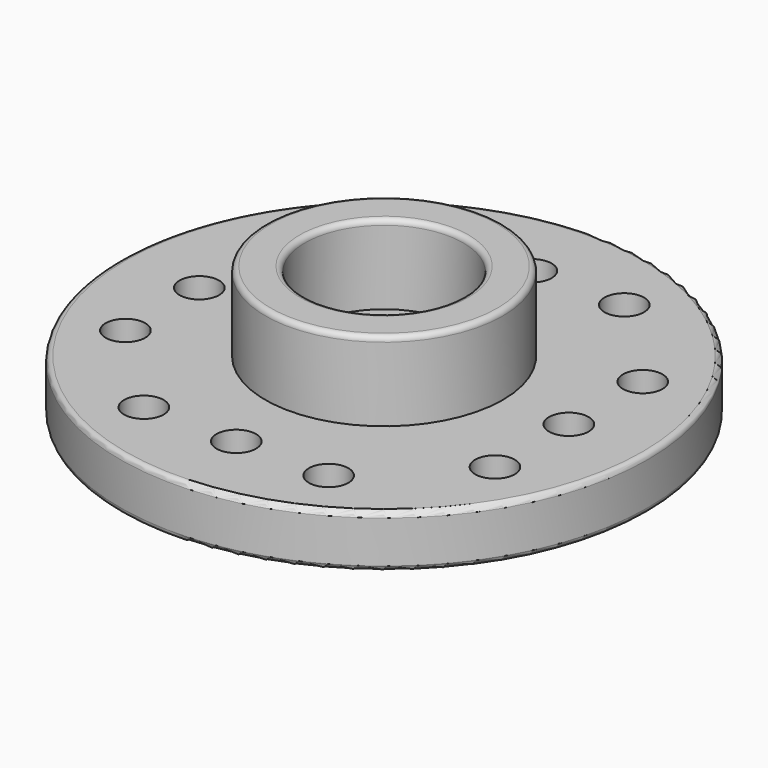
from build123d import *

# Parameters (mm, degrees)
SKETCH_R      = 10
SKETCH_R_2    = 0.75
PAD_DEPTH     = 2
SKETCH001_R   = 4.5
SKETCH001_R_2 = 3
PAD001_DEPTH  = 3
SKETCH003_R   = 1.25
POCKET_DEPTH  = 5
FILLET_R      = 0.2


with BuildPart() as part:
    # Sketch → Pad (new body)
    with BuildSketch(Plane.XY):
        Circle(SKETCH_R)
        with Locations((0, 7)):
            Circle(SKETCH_R_2, mode=Mode.SUBTRACT)
        with Locations((3.5, 7)):
            Circle(SKETCH_R_2, mode=Mode.SUBTRACT)
        with Locations((-3.5, 7)):
            Circle(SKETCH_R_2, mode=Mode.SUBTRACT)
        with Locations((-7, 3.5)):
            Circle(SKETCH_R_2, mode=Mode.SUBTRACT)
        with Locations((-7, 0)):
            Circle(SKETCH_R_2, mode=Mode.SUBTRACT)
        with Locations((-7, -3.5)):
            Circle(SKETCH_R_2, mode=Mode.SUBTRACT)
        with Locations((7, 3.5)):
            Circle(SKETCH_R_2, mode=Mode.SUBTRACT)
        with Locations((7, 0)):
            Circle(SKETCH_R_2, mode=Mode.SUBTRACT)
        with Locations((7, -3.5)):
            Circle(SKETCH_R_2, mode=Mode.SUBTRACT)
        with Locations((0, -7)):
            Circle(SKETCH_R_2, mode=Mode.SUBTRACT)
        with Locations((3.5, -7)):
            Circle(SKETCH_R_2, mode=Mode.SUBTRACT)
        with Locations((-3.5, -7)):
            Circle(SKETCH_R_2, mode=Mode.SUBTRACT)
    extrude(amount=PAD_DEPTH)

    # Sketch001 (on Face15 of Pad) → Pad001 (join)
    with BuildSketch(Plane.XY.offset(2)):
        Circle(SKETCH001_R)
        Circle(SKETCH001_R_2, mode=Mode.SUBTRACT)
    extrude(amount=PAD001_DEPTH)

    # Sketch003 → Pocket (cut)
    with BuildSketch(Plane.XY):
        Circle(SKETCH003_R)
    extrude(amount=POCKET_DEPTH, mode=Mode.SUBTRACT)

    # Fillet
    fillet_edges = [part.edges().sort_by_distance(p)[0] for p in [
        (-10, 0, 0),
        (-10, 0, 2),
        (-4.5, 0, 5),
        (-3, 0, 5),
    ]]
    fillet(fillet_edges, radius=FILLET_R)


solid = part.part
